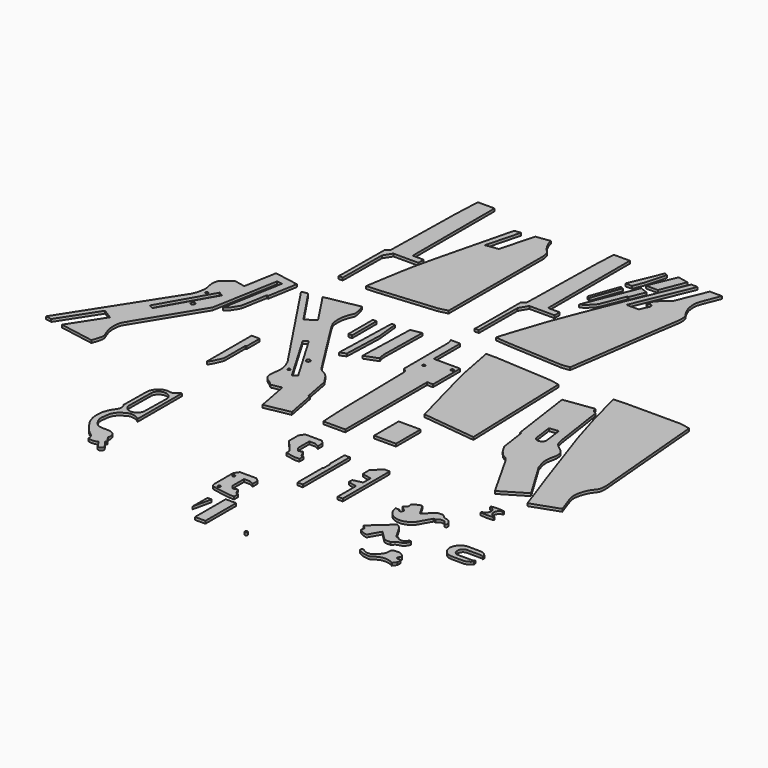
from build123d import *

# Parameters (mm, degrees)
F1_DEPTH = 4
F0_W     = 33.5730910301
F0_H     = 47.1590980887
F0_R     = 2.05
F0_W_2   = 5.7144165039
F0_H_2   = 47.2314357758
F0_R_2   = 3.05
F0_W_3   = 15.9847736359
F0_H_3   = 59.0357482433


with BuildPart() as f1:
    # F0 (on Top) → F1 (new body)
    with BuildSketch(Plane.XY):
        with BuildLine():
            Line((-126.8696933985, 148.6443728209), (-149.1726189852, 147.6457417011))
            Line((-149.1726189852, 147.6457417011), (-134.77191329, 92.6301553845))
            Line((-134.77191329, 92.6301553845), (-120.0102046132, 43.2502627373))
            Line((-120.0102046132, 43.2502627373), (-84.9411413074, -59.3262389302))
            Line((-84.9411413074, -59.3262389302), (-61.009414494, -127.2256076336))
            Line((-61.009414494, -127.2256076336), (-19.3040833776, -112.5261986406))
            Line((-19.3040833776, -112.5261986406), (-28.2539571901, -87.1335144192))
            add(Edge.make_bspline(
                [(-28.2539571901, -87.1335144192), (-28.8616082087, -84.8050385415), (-30.0440561297, -80.2739814435), (-30.2867577287, -73.8183101467), (-28.5145369549, -65.4146262914), (-24.9138246568, -56.0928941749), (-21.6709310355, -51.1066319473), (-17.7588658902, -46.8146256346), (-16.3586589593, -43.2651514679), (-15.5813463231, -38.6956073921), (-15.2979185795, -33.1958223403), (-16.1400583484, -24.6149668379), (-16.6616048664, -19.3007476628)],
                knots=[0, 0, 0, 0, 0.1012575134, 0.1970402955, 0.3093439754, 0.4298558315, 0.5237635009, 0.6136991987, 0.6877944622, 0.7673414647, 0.8559119835, 1, 1, 1, 1], degree=3))
            Line((-16.6616048664, -19.3007476628), (-31.1113949865, 145.6484645605))
            Line((-31.1113949865, 145.6484645605), (-45.6471294165, 148.6443728209))
            Line((-45.6471294165, 148.6443728209), (-126.8696933985, 148.6443728209))
        make_face()
    extrude(amount=F1_DEPTH)


with BuildPart() as f1b:
    # F0 (on Top) → F1, piece 2 (new body)
    with BuildSketch(Plane.XY):
        with BuildLine():
            Line((-150.2856761217, 115.0882318616), (-196.6609656811, 108.6871400476))
            Line((-196.6609656811, 108.6871400476), (-182.6762408018, 10.5949435383))
            Line((-182.6762408018, 10.5949435383), (-180.6167214529, 10.8885633419))
            Line((-180.6167214529, 10.8885633419), (-174.8629330311, -29.4698812767))
            Line((-174.8629330311, -29.4698812767), (-170.3889071941, -37.3528078198))
            add(Edge.make_bspline(
                [(-170.3889071941, -37.3528078198), (-169.6140104101, -38.6593291243), (-168.0289112411, -41.3318990414), (-164.4918087142, -45.0179122971), (-161.8423406119, -48.0923084143), (-157.9222832786, -49.8899292713), (-155.7314569878, -51.5064053024), (-152.5480859385, -54.1210761545), (-150.8606222605, -56.9890729029), (-149.9601751566, -58.5194639862)],
                knots=[0, 0, 0, 0, 0.1496396812, 0.306097198, 0.447218165, 0.588404953, 0.7034165711, 0.8417401849, 1, 1, 1, 1], degree=3))
            Line((-149.9601751566, -58.5194639862), (-111.4456728101, -126.787930727))
            Line((-111.4456728101, -126.787930727), (-73.8773345947, -104.2317524552))
            Line((-73.8773345947, -104.2317524552), (-109.101637609, -45.5640777679))
            add(Edge.make_bspline(
                [(-109.101637609, -45.5640777679), (-109.7092519293, -43.7892885668), (-110.963267246, -40.1264176179), (-112.7418177327, -33.8644897258), (-113.7198122366, -27.6290821225), (-113.3428037503, -20.667315774), (-111.0683907866, -12.0895300115), (-110.8254638798, -7.3162615878), (-111.3612195133, -2.2105599196), (-112.011788876, 0.024660125), (-114.1803740075, 3.0003749438), (-117.1734575042, 5.7402509261), (-123.0209094961, 9.8563916892), (-126.8857962992, 13.6588578665), (-130.2674998512, 18.4681256736), (-132.5204561081, 33.591521371), (-135.2255253827, 51.9276233215), (-140.4503253903, 88.3521148252), (-142.437373651, 101.0963678013), (-143.2584971189, 106.3627749681)],
                knots=[0, 0, 0, 0, 0.0490598765, 0.1012514593, 0.1523260559, 0.2069161892, 0.2675116027, 0.3133673915, 0.3585294317, 0.389844127, 0.4276604059, 0.4696368682, 0.5243450753, 0.5717809871, 0.6197952083, 0.696936577, 0.7886581531, 0.9126655584, 1, 1, 1, 1], degree=3))
            add(Edge.make_bspline(
                [(-143.2584971189, 106.3627749681), (-143.6496126071, 106.4347971787), (-144.5928253734, 106.6084856941), (-146.9059329776, 107.9566773162), (-148.4307166542, 109.2430680249), (-149.2975770777, 110.5057218145), (-149.7426408468, 111.1539939463)],
                knots=[0, 0, 0, 0, 0.2009637919, 0.4846435894, 0.735405539, 1, 1, 1, 1], degree=3))
            Line((-149.7426408468, 111.1539939463), (-150.2856761217, 115.0882318616))
        make_face()
        with BuildLine():
            Line((-159.0502377188, 13.5196315993), (-162.6971513033, 40.8715344965))
            Line((-162.6971513033, 40.8715344965), (-148.7154960632, 42.7357517183))
            Line((-148.7154960632, 42.7357517183), (-145.0007471436, 15.3928935155))
            ThreePointArc((-145.0007471436, 15.3928935155), (-151.0865356582, 7.4140736255), (-159.0502377188, 13.5196315993))
        make_face(mode=Mode.SUBTRACT)
    extrude(amount=F1_DEPTH)


with BuildPart() as f1c:
    # F0 (on Top) → F1, piece 3 (new body)
    with BuildSketch(Plane.XY):
        with Locations((-297.5543955866, -81.3886487544)):
            Rectangle(F0_W, F0_H)
    extrude(amount=F1_DEPTH)


with BuildPart() as f1d:
    # F0 (on Top) → F1, piece 4 (new body)
    with BuildSketch(Plane.XY):
        with BuildLine():
            Line((-383.0040613714, 95.3320635795), (-383.0040613714, 146.148212099))
            Line((-383.0040613714, 146.148212099), (-397.8620688024, 146.148212099))
            add(Edge.make_bspline(
                [(-397.8620688024, 146.148212099), (-397.4652996708, 145.5949915654), (-396.6068854065, 144.3980930179), (-395.9179535112, 141.5487560786), (-395.3482778071, 139.0798178293), (-395.2835453549, 136.9799455072), (-395.249418408, 135.8728928804)],
                knots=[0, 0, 0, 0, 0.2224497714, 0.481272462, 0.7265268571, 1, 1, 1, 1], degree=3))
            Line((-395.249418408, 135.8728928804), (-394.9187914434, 52.8097970723))
            add(Edge.make_bspline(
                [(-394.9187914434, 52.8097970723), (-394.186626028, 52.4426613783), (-392.6714232138, 51.6828808354), (-390.6409762259, 49.6163206045), (-389.6598942345, 47.9081720614), (-389.1635457578, 47.0439864635)],
                knots=[0, 0, 0, 0, 0.3159967496, 0.6539494412, 1, 1, 1, 1], degree=3))
            Line((-389.1635457578, 47.0439864635), (-387.016586453, -71.3504628897))
            Line((-387.016586453, -71.3504628897), (-386.1852804724, -93.0580274821))
            Line((-386.1852804724, -93.0580274821), (-384.7996512953, -114.0973495007))
            Line((-384.7996512953, -114.0973495007), (-351.3473192755, -114.0973495007))
            Line((-351.3473192755, -114.0973495007), (-351.3473192755, 43.1197805642))
            Line((-351.3473192755, 43.1197805642), (-342.4420277181, 43.1197805642))
            Line((-342.4420277181, 43.1197805642), (-342.4420277181, 95.3320635795))
            Line((-342.4420277181, 95.3320635795), (-383.0040613714, 95.3320635795))
        make_face()
        with Locations((-381.5946483713, 74.5795831767)):
            Circle(F0_R, mode=Mode.SUBTRACT)
        with Locations((-347.5594616998, 86.6207893828)):
            Circle(F0_R, mode=Mode.SUBTRACT)
    extrude(amount=F1_DEPTH)


with BuildPart() as f1e:
    # F0 (on Top) → F1, piece 5 (new body)
    with BuildSketch(Plane.XY):
        with BuildLine():
            add(Edge.make_bspline(
                [(-342.0614520613, 144.7621954917), (-338.6008439651, 125.2612932758), (-332.1439201855, 88.8758269808), (-322.2298994141, 52.4255692298), (-305.0785398906, -10.8714420915), (-302.3956225051, -20.9679510403), (-301.5675763193, -24.0841020518)],
                knots=[0, 0, 0, 0, 0.2930633159, 0.5468077982, 0.8601283528, 1, 1, 1, 1], degree=3))
            Line((-301.5675763193, -24.0841020518), (-219.091377646, -33.5164844677))
            Line((-219.091377646, -33.5164844677), (-224.655858666, 136.6334034442))
            Line((-224.655858666, 136.6334034442), (-237.6803974214, 139.4045872926))
            Line((-237.6803974214, 139.4045872926), (-325.2872553572, 144.7621954917))
            Line((-325.2872553572, 144.7621954917), (-342.0614520613, 144.7621954917))
        make_face()
    extrude(amount=F1_DEPTH)


with BuildPart() as f1f:
    # F0 (on Top) → F1, piece 6 (new body)
    with BuildSketch(Plane.XY):
        with Locations((-500.5450248718, 105.3968966007)):
            Rectangle(F0_W_2, F0_H_2)
    extrude(amount=F1_DEPTH)


with BuildPart() as f1g:
    # F0 (on Top) → F1, piece 7 (new body)
    with BuildSketch(Plane.XY):
        with BuildLine():
            Line((-580.5239677429, 5.9514869936), (-591.2783145905, 5.9514869936))
            Line((-591.2783145905, 5.9514869936), (-591.2783145905, -60.0811168551))
            Line((-591.2783145905, -60.0811168551), (-591.2783145905, -80.0575688481))
            add(Edge.make_bspline(
                [(-591.2783145905, -80.0575688481), (-590.6073292225, -79.4887083629), (-588.9624822346, -78.0942093166), (-585.7008294956, -72.3299084365), (-584.8417560667, -69.7516959933), (-582.2639116977, -64.5129183786), (-581.0910589475, -61.5255516932), (-580.5239677429, -60.0811168551)],
                knots=[0, 0, 0, 0, 0.1646933771, 0.4037277386, 0.5670464707, 0.7906607301, 1, 1, 1, 1], degree=3))
            Line((-580.5239677429, -60.0811168551), (-580.5239677429, -19.1602502018))
            Line((-580.5239677429, -19.1602502018), (-578.7490010262, -19.1602502018))
            Line((-578.7490010262, -19.1602502018), (-578.7490010262, 5.9514869936))
            Line((-578.7490010262, 5.9514869936), (-580.5239677429, 5.9514869936))
        make_face()
    extrude(amount=F1_DEPTH)


with BuildPart() as f1h:
    # F0 (on Top) → F1, piece 8 (new body)
    with BuildSketch(Plane.XY):
        with BuildLine():
            Line((-435.6709122658, 139.354839921), (-452.1144330502, 136.3226920366))
            Line((-452.1144330502, 136.3226920366), (-454.7967016697, 48.2739768922))
            Line((-454.7967016697, 48.2739768922), (-434.2718720436, 56.0976229608))
            add(Edge.make_bspline(
                [(-436.7204904556, 68.5660019517), (-436.6741644506, 67.2978347331), (-436.5760896923, 64.6130534013), (-435.7198186127, 59.7213201529), (-434.7349662268, 57.2565836071), (-434.2718720436, 56.0976229608)],
                knots=[0, 0, 0, 0, 0.3216969144, 0.681050462, 1, 1, 1, 1], degree=3))
            Line((-436.7204904556, 68.5660019517), (-435.6709122658, 139.354839921))
        make_face()
    extrude(amount=F1_DEPTH)


with BuildPart() as f1i:
    # F0 (on Top) → F1, piece 9 (new body)
    with BuildSketch(Plane.XY):
        Polygon((-474.5056331158, 134.9232494831), (-479.2870879173, 134.9232494831), (-482.0859730244, 37.3116098344), (-473.1061756611, 41.1600992084), (-471.0070192814, 101.9195541739), align=None)
    extrude(amount=F1_DEPTH)


with BuildPart() as f1j:
    # F0 (on Top) → F1, piece 10 (new body)
    with BuildSketch(Plane.XY):
        with BuildLine():
            Line((-606.6346013213, 133.8739955471), (-616.2075400352, 132.0603638887))
            Line((-616.2075400352, 132.0603638887), (-514.7188305855, -20.7938980311))
            add(Edge.make_bspline(
                [(-514.7188305855, -20.7938980311), (-513.5366087574, -23.4948734155), (-511.4212870369, -28.3276651652), (-510.1802429082, -33.3351768859), (-509.2003703063, -38.5747176969), (-509.1312867446, -43.0922530009), (-509.9183274509, -48.375917569), (-511.0376157223, -55.5553539537), (-510.8344708777, -61.7050119799), (-509.5009662695, -66.532938783), (-505.1453477928, -71.0003727492), (-498.9974085847, -74.6264953227), (-495.6400033244, -77.7026931205), (-493.9857125282, -79.2184248567)],
                knots=[0, 0, 0, 0, 0.1068521165, 0.1911879797, 0.2756402054, 0.3539072671, 0.4394372292, 0.5400101273, 0.6319587672, 0.7129753265, 0.8038972902, 0.9033745161, 1, 1, 1, 1], degree=3))
            Line((-493.9857125282, -79.2184248567), (-478.2448112965, -76.2366726995))
            Line((-478.2448112965, -76.2366726995), (-468.8000060765, -126.0965330375))
            Line((-468.8000060765, -126.0965330375), (-429.6807615674, -118.6862907657))
            Line((-429.6807615674, -118.6862907657), (-438.2991551299, -73.1891217551))
            Line((-438.2991551299, -73.1891217551), (-440.3229222124, -73.5724779413))
            Line((-440.3229222124, -73.5724779413), (-447.9009476891, -33.5674928615))
            add(Edge.make_bspline(
                [(-447.9009476891, -33.5674928615), (-450.535179347, -29.4023886419), (-455.0978336245, -22.1881671717), (-460.3326976087, -16.6530713475), (-464.5775709605, -14.4277878955), (-467.8912096231, -12.9724934273), (-471.7690060051, -9.7319807258), (-473.386985525, -7.1810754357), (-474.1789698601, -5.9324335307)],
                knots=[0, 0, 0, 0, 0.2511203551, 0.4349561888, 0.5783772298, 0.706514657, 0.8563419429, 1, 1, 1, 1], degree=3))
            Line((-474.1789698601, -5.9324335307), (-531.1858057976, 84.1218084097))
            add(Edge.make_bspline(
                [(-531.1858057976, 84.1218084097), (-532.0883228982, 85.7788339879), (-533.8728605535, 89.0552533908), (-535.8981096368, 94.1136359516), (-536.3832726491, 99.4145203045), (-536.5864521231, 104.966524786), (-536.1242086634, 110.6329070757), (-534.2046001488, 118.4692389632), (-532.0053932376, 123.3490591011), (-531.2262015799, 125.3249836175), (-530.3059822568, 127.2229357318), (-530.2995208469, 130.4087529147), (-530.8555227049, 136.9465626055), (-533.4587377271, 143.6218746615), (-534.9532961845, 147.4543064833)],
                knots=[0, 0, 0, 0, 0.0867300668, 0.171490457, 0.2555242828, 0.3407675119, 0.4284610049, 0.533336456, 0.6172888703, 0.6692326459, 0.7201123999, 0.783331289, 0.8756061057, 1, 1, 1, 1], degree=3))
            Line((-534.9532961845, 147.4543064833), (-587.4677444847, 137.505233497))
            Line((-587.4677444847, 137.505233497), (-554.1652441025, 87.1613398194))
            Line((-554.1652441025, 87.1613398194), (-568.8669589945, 77.4361511213))
            Line((-568.8669589945, 77.4361511213), (-606.6346013213, 133.8739955471))
        make_face()
        with Locations((-501.4609098434, -34.6162058413)):
            Circle(F0_R, mode=Mode.SUBTRACT)
        Polygon((-489.1925752163, -44.2672595382), (-534.9532961845, 33.6478352547), (-528.539121151, 37.3797006905), (-482.813000679, -40.1760153472), align=None, mode=Mode.SUBTRACT)
        with Locations((-497.574955225, -2.300796099)):
            Circle(F0_R_2, mode=Mode.SUBTRACT)
    extrude(amount=F1_DEPTH)


with BuildPart() as f1k:
    # F0 (on Top) → F1, piece 11 (new body)
    with BuildSketch(Plane.XY):
        with BuildLine():
            Line((-570.1380968094, 446.0050463676), (-595.7950353622, 446.0050463676))
            add(Edge.make_bspline(
                [(-599.9557375908, 284.6274077892), (-599.8363116899, 290.8376082782), (-599.5949679056, 303.3875934689), (-598.7989403028, 321.7884257691), (-598.3370589885, 366.6813476594), (-597.8113493608, 393.2731142039), (-597.8180447336, 404.3422830589), (-596.6045832121, 429.3328544675), (-595.7950353622, 446.0050463676)],
                knots=[0, 0, 0, 0, 0.140820454, 0.2845793167, 0.5089375246, 0.6776456794, 0.7849447696, 1, 1, 1, 1], degree=3))
            add(Edge.make_bspline(
                [(-605.6446433067, 278.9187729359), (-605.0935047016, 279.2372289163), (-603.9766780522, 279.8825477568), (-602.4907481766, 281.1139835084), (-600.6620648662, 283.2883420082), (-600.1650576671, 284.2305756672), (-599.9557375908, 284.6274077892)],
                knots=[0, 0, 0, 0, 0.2416985592, 0.4897776884, 0.7851142329, 1, 1, 1, 1], degree=3))
            Line((-605.6446433067, 278.9187729359), (-606.0792207718, 200.1085579395))
            Line((-606.0792207718, 200.1085579395), (-606.0792207718, 197.1296668053))
            Line((-606.0792207718, 197.1296668053), (-606.2263250351, 194.5553272963))
            Line((-606.2263250351, 194.5553272963), (-606.4592003822, 191.9461637735))
            Line((-606.4592003822, 191.9461637735), (-600.0903844833, 191.9461637735))
            Line((-600.0903844833, 191.9461637735), (-599.3775725365, 266.1938965321))
            Line((-599.3775725365, 266.1938965321), (-591.6303992271, 278.6488234997))
            Line((-591.6303992271, 278.6488234997), (-553.2865524292, 278.6488234997))
            Line((-553.2865524292, 278.6488234997), (-553.2865524292, 288.8481020927))
            Line((-553.2865524292, 288.8481020927), (-570.1380968094, 288.8481020927))
            Line((-570.1380968094, 288.8481020927), (-570.1380968094, 446.0050463676))
        make_face()
    extrude(amount=F1_DEPTH)


with BuildPart() as f1l:
    # F0 (on Top) → F1, piece 12 (new body)
    with BuildSketch(Plane.XY):
        with BuildLine():
            Line((-505.8259856911, 416.5581063239), (-515.5130624771, 415.2249693871))
            Line((-515.5130624771, 415.2249693871), (-544.4291234016, 298.331797123))
            add(Edge.make_bspline(
                [(-544.4291234016, 298.331797123), (-546.5763743396, 289.3212873693), (-550.7160120485, 271.9501244118), (-555.0654761868, 250.1304222198), (-561.1861184549, 214.245097284), (-563.428715173, 199.1188405118), (-564.4128322601, 192.4809962511)],
                knots=[0, 0, 0, 0, 0.2501933866, 0.4823423101, 0.7728366523, 1, 1, 1, 1], degree=3))
            Line((-564.4128322601, 192.4809962511), (-541.9923663139, 193.7090903521))
            Line((-541.9923663139, 193.7090903521), (-460.2054953575, 201.0178714991))
            Line((-460.2054953575, 201.0178714991), (-447.2607970238, 204.3522447348))
            Line((-447.2607970238, 204.3522447348), (-446.923494339, 383.5378587246))
            add(Edge.make_bspline(
                [(-464.6663963795, 422.222495079), (-464.3864611354, 420.9277805132), (-463.7742609115, 418.0963237252), (-461.6793555576, 412.4096988593), (-458.9364292177, 407.5807985203), (-454.4974498256, 400.723421017), (-450.3058870161, 397.3292140832), (-448.5494664377, 394.3810006965), (-447.230887383, 389.0332902009), (-447.0267424299, 385.3836806121), (-446.923494339, 383.5378587246)],
                knots=[0, 0, 0, 0, 0.1104347991, 0.2415137435, 0.3712283272, 0.5254895112, 0.6494854222, 0.7471520132, 0.8721199249, 1, 1, 1, 1], degree=3))
            Line((-464.6663963795, 422.222495079), (-486.3327259813, 419.2407716019))
            Line((-486.3327259813, 419.2407716019), (-500.2357363701, 366.825312376))
            Line((-500.2357363701, 366.825312376), (-519.4985764494, 364.1743574816))
            Line((-519.4985764494, 364.1743574816), (-505.8259856911, 416.5581063239))
        make_face()
    extrude(amount=F1_DEPTH)


with BuildPart() as f1m:
    # F0 (on Top) → F1, piece 13 (new body)
    with BuildSketch(Plane.XY):
        Polygon((-269.6309089661, 440.7725930214), (-285.9586775303, 444.0712630749), (-303.1935095787, 402.7554094791), (-284.7217321396, 402.7554094791), align=None)
    extrude(amount=F1_DEPTH)


with BuildPart() as f1n:
    # F0 (on Top) → F1, piece 14 (new body)
    with BuildSketch(Plane.XY):
        Polygon((-300.6371557713, 439.7829771042), (-305.0076961517, 441.9271051884), (-325.8709311485, 391.7048573494), (-315.7279491425, 391.7048573494), (-309.2958033085, 407.8683257103), align=None)
    extrude(amount=F1_DEPTH)


with BuildPart() as f1o:
    # F0 (on Top) → F1, piece 15 (new body)
    with BuildSketch(Plane.XY):
        with BuildLine():
            Line((-252.6434659958, 438.8758540154), (-262.5390589237, 438.8758540154))
            Line((-262.5390589237, 438.8758540154), (-297.9635298252, 353.6876440048))
            Line((-297.9635298252, 353.6876440048), (-320.992231369, 296.1804270744))
            Line((-320.992231369, 296.1804270744), (-336.094379425, 257.3446929455))
            Line((-336.094379425, 257.3446929455), (-354.1385531425, 203.4061402082))
            Line((-354.1385531425, 203.4061402082), (-359.5672249794, 185.3179335594))
            Line((-359.5672249794, 185.3179335594), (-337.793469429, 183.4455728531))
            Line((-337.793469429, 183.4455728531), (-253.5338401794, 178.8835227489))
            Line((-253.5338401794, 178.8835227489), (-241.6591048241, 180.4297715425))
            add(Edge.make_bspline(
                [(-223.8890230656, 416.2343740463), (-224.7464859938, 414.0589694647), (-226.3789726339, 409.917310625), (-227.8341763392, 404.4404382996), (-227.9988425447, 399.5245944133), (-227.5156293029, 394.2837653399), (-226.2949227682, 387.3501900343), (-223.3812742646, 380.4539928242), (-219.9286772443, 374.9560970823), (-217.1535374654, 371.5027304779), (-215.8402125269, 367.6777972622), (-215.6825539501, 362.4063832796), (-215.5739189482, 357.3310725709), (-220.5278904759, 329.5062713766), (-232.7703231982, 243.1383518799), (-241.6591048241, 180.4297715425)],
                knots=[0, 0, 0, 0, 0.0608249763, 0.1158020458, 0.166598332, 0.219604079, 0.281133206, 0.3451998085, 0.4042738658, 0.4524062468, 0.4986181041, 0.5507475188, 0.5990475243, 0.7088831052, 1, 1, 1, 1], degree=3))
            Line((-223.8890230656, 416.2343740463), (-215.0654494762, 438.582867384))
            Line((-215.0654494762, 438.582867384), (-233.6197048426, 438.582867384))
            Line((-233.6197048426, 438.582867384), (-252.6687681675, 392.2365307808))
            Line((-252.6687681675, 392.2365307808), (-269.3683803082, 377.5373697281))
            Line((-269.3683803082, 377.5373697281), (-273.7406014097, 366.8445887195))
            Line((-273.7406014097, 366.8445887195), (-271.4170680779, 365.8243612775))
            ThreePointArc((-271.4170680779, 365.8243612775), (-266.8666973715, 367.5979704989), (-265.09308815, 363.0475997925))
            Line((-265.09308815, 363.0475997925), (-271.1952030659, 349.1502404213))
            Line((-271.1952030659, 349.1502404213), (-290.2044057846, 349.1502404213))
            Line((-290.2044057846, 349.1502404213), (-252.6434659958, 438.8758540154))
        make_face()
    extrude(amount=F1_DEPTH)


with BuildPart() as f1p:
    # F0 (on Top) → F1, piece 16 (new body)
    with BuildSketch(Plane.XY):
        Polygon((-324.6793746668, 381.4430840636), (-340.3768837452, 337.308973074), (-336.0063433647, 335.6596529484), (-320.4207420349, 379.9442946911), align=None)
    extrude(amount=F1_DEPTH)


with BuildPart() as f1q:
    # F0 (on Top) → F1, piece 17 (new body)
    with BuildSketch(Plane.XY):
        with BuildLine():
            Line((-291.7368412018, 389.7482454777), (-303.3508956432, 394.0130472183))
            Line((-303.3508956432, 394.0130472183), (-335.1690471172, 314.4009113312))
            add(Edge.make_bspline(
                [(-335.1690471172, 314.4009113312), (-334.1892319299, 314.8452928849), (-331.8919272836, 315.8872034629), (-326.6349383667, 319.5447535417), (-322.2398393838, 324.5902686995), (-319.2053003935, 327.8512519544), (-317.6980912685, 329.4709324837)],
                knots=[0, 0, 0, 0, 0.1951443204, 0.4575413402, 0.7305690767, 1, 1, 1, 1], degree=3))
            Line((-317.6980912685, 329.4709324837), (-302.6775154287, 367.1936863768))
            Line((-302.6775154287, 367.1936863768), (-300.8767962456, 366.4861619473))
            Line((-300.8767962456, 366.4861619473), (-291.7368412018, 389.7482454777))
        make_face()
    extrude(amount=F1_DEPTH)


with BuildPart() as f1r:
    # F0 (on Top) → F1, piece 18 (new body)
    with BuildSketch(Plane.XY):
        with BuildLine():
            add(Edge.make_bspline(
                [(-394.0003216267, 187.2221380472), (-393.8788367871, 187.6796204547), (-393.5880018886, 188.774834063), (-393.4363835452, 190.6291557486), (-393.3480978012, 191.708907485)],
                knots=[0, 0, 0, 0, 0.4177106676, 1, 1, 1, 1], degree=3))
            Line((-394.0003216267, 187.2221380472), (-387.4298930168, 187.2221380472))
            Line((-387.4298930168, 187.2221380472), (-386.9952559471, 261.2520754337))
            Line((-386.9952559471, 261.2520754337), (-379.2970776558, 274.1482853889))
            Line((-379.2970776558, 274.1482853889), (-340.632557869, 274.1482853889))
            Line((-340.632557869, 274.1482853889), (-340.632557869, 284.104436636))
            Line((-340.632557869, 284.104436636), (-358.5271239281, 284.104436636))
            Line((-358.5271239281, 284.104436636), (-358.5271239281, 441.2885010242))
            Line((-358.5271239281, 441.2885010242), (-383.0580413342, 441.2885010242))
            add(Edge.make_bspline(
                [(-383.0580413342, 441.2885010242), (-383.223280959, 437.8945239384), (-383.5401815364, 431.3854720138), (-384.2763846505, 422.7452517582), (-384.7232210293, 414.4351816006), (-385.0258204655, 397.8078169047), (-385.6323123688, 371.0408992664), (-385.766348071, 344.0718975859), (-386.2577730291, 317.3785184702), (-387.1099493921, 288.2235847485), (-387.2364235378, 282.1318992953), (-387.2793316841, 280.0652086735)],
                knots=[0, 0, 0, 0, 0.0861695966, 0.1652581513, 0.2423156963, 0.3519381802, 0.4939967142, 0.6354121144, 0.7799779894, 0.9253544147, 1, 1, 1, 1], degree=3))
            add(Edge.make_bspline(
                [(-387.2793316841, 280.0652086735), (-387.6981221963, 279.4488818457), (-388.4414757844, 278.3549010952), (-389.2249105583, 277.3794674389), (-390.7759402629, 275.8239183863), (-392.2535404059, 274.8783061801), (-393.0412232876, 274.374216795)],
                knots=[0, 0, 0, 0, 0.2537239405, 0.4503602542, 0.7069966317, 1, 1, 1, 1], degree=3))
            Line((-393.0412232876, 274.374216795), (-393.3480978012, 191.708907485))
        make_face()
    extrude(amount=F1_DEPTH)


with BuildPart() as f1s:
    # F0 (on Top) → F1, piece 19 (new body)
    with BuildSketch(Plane.XY):
        with BuildLine():
            Line((-678.4248352051, 100.9059399366), (-696.0345506668, 104.4045612216))
            add(Edge.make_bspline(
                [(-716.0859107971, 45.3799813986), (-715.1380114353, 46.9171322974), (-713.0757499465, 51.885268724), (-711.9137648311, 56.260615069), (-710.2389836645, 65.1362668657), (-711.1385410545, 71.4373524973), (-712.7140477123, 78.0845251645), (-712.8885943257, 84.6428768511), (-711.6615040044, 91.7445763164), (-706.7875502148, 95.9682820562), (-702.0346434724, 98.8512424442), (-698.159499351, 102.4378179077), (-696.0345506668, 104.4045612216)],
                knots=[0, 0, 0, 0, 0.1012236777, 0.1877130651, 0.3017044512, 0.4008514848, 0.5006603367, 0.6005075694, 0.7023319019, 0.7976672544, 0.8890107049, 1, 1, 1, 1], degree=3))
            Line((-716.0859107971, 45.3799813986), (-815.0666952133, -108.7941676378))
            Line((-815.0666952133, -108.7941676378), (-805.8601774684, -110.430440958))
            Line((-805.8601774684, -110.430440958), (-768.847823143, -53.227558732))
            Line((-768.847823143, -53.227558732), (-753.7347740118, -63.0062535742))
            Line((-753.7347740118, -63.0062535742), (-786.6312396991, -113.8479978149))
            Line((-786.6312396991, -113.8479978149), (-733.9261174202, -123.2152730227))
            add(Edge.make_bspline(
                [(-730.2752137184, -58.7613023818), (-730.9478141395, -59.9310615636), (-732.2482416693, -62.1927120111), (-734.1079391651, -65.0928659146), (-735.6269751863, -70.0772045523), (-735.992262227, -75.6735113025), (-736.3652031194, -81.8778682116), (-734.8814341519, -89.1360651985), (-732.2503407292, -97.5975075808), (-730.1503695908, -101.3164385965), (-729.0673655857, -105.64340997), (-730.146394766, -111.8606416847), (-732.5283415331, -119.0162268641), (-733.9261174202, -123.2152730227)],
                knots=[0, 0, 0, 0, 0.0742163579, 0.1434923202, 0.2278063106, 0.3169454193, 0.4092626672, 0.5126496901, 0.6237537303, 0.7008926992, 0.7763616217, 0.8687643499, 1, 1, 1, 1], degree=3))
            Line((-730.2752137184, -58.7613023818), (-673.5481975472, 33.9919456786))
            Line((-673.5481975472, 33.9919456786), (-655.4192809638, 135.3609722038))
            Line((-655.4192809638, 135.3609722038), (-647.0003724098, 133.8553279638))
            Line((-647.0003724098, 133.8553279638), (-663.5693311691, 41.2089079618))
            add(Edge.make_bspline(
                [(-663.5693311691, 41.2089079618), (-662.6673861061, 41.9120311541), (-660.6248198402, 43.5043406772), (-656.5407619886, 47.4968008108), (-653.531740655, 52.589373368), (-651.9082108682, 55.3160706287), (-650.3590515727, 57.8889645406), (-649.5134327645, 59.2933956341)],
                knots=[0, 0, 0, 0, 0.1786976041, 0.4046828491, 0.6314367289, 0.7988173102, 1, 1, 1, 1], degree=3))
            Line((-649.5134327645, 59.2933956341), (-642.453712441, 99.2157477975))
            Line((-642.453712441, 99.2157477975), (-640.3424442417, 98.8423989789))
            Line((-640.3424442417, 98.8423989789), (-632.3143095467, 144.2410841699))
            Line((-632.3143095467, 144.2410841699), (-669.5957779884, 150.8338004351))
            Line((-669.5957779884, 150.8338004351), (-678.4248352051, 100.9059399366))
        make_face()
        Polygon((-735.466244477, -8.9512105188), (-690.8397078514, 69.2328289151), (-684.3089461327, 65.3843432665), (-728.9163470268, -12.6933045685), align=None, mode=Mode.SUBTRACT)
        with Locations((-698.5371112823, 27.3897666484)):
            Circle(F0_R_2, mode=Mode.SUBTRACT)
        with Locations((-702.931702137, 59.4447590411)):
            Circle(F0_R, mode=Mode.SUBTRACT)
    extrude(amount=F1_DEPTH)


with BuildPart() as f1t:
    # F0 (on Top) → F1, piece 20 (new body)
    with BuildSketch(Plane.XY):
        with BuildLine():
            Line((-562.891304493, -163.4428352118), (-565.6126141548, -163.4428352118))
            add(Edge.make_bspline(
                [(-598.3564853668, -185.1557791233), (-598.1665816357, -184.2427557934), (-597.7508754346, -182.2441143885), (-596.103553532, -178.475795799), (-593.819301803, -174.7916131601), (-591.2077445799, -172.534296598), (-589.3477680152, -171.3762260155), (-586.007826303, -169.6498491995), (-582.4315324331, -169.0323075972), (-579.881190219, -168.8911411217), (-576.9489012805, -169.3308069369), (-574.1011338249, -169.7527796129), (-571.7150321552, -169.6667386006), (-569.9164084948, -168.3637361211), (-567.443866717, -166.6035056146), (-566.2438634077, -164.5323467687), (-565.6126141548, -163.4428352118)],
                knots=[0, 0, 0, 0, 0.0693676285, 0.1518482714, 0.237452551, 0.311444312, 0.3715175199, 0.4498014832, 0.5274956245, 0.5922047425, 0.6618344875, 0.7314635507, 0.7926283476, 0.8519488279, 0.9221192216, 1, 1, 1, 1], degree=3))
            Line((-598.3564853668, -185.1557791233), (-598.8880395889, -230.0121933222))
            add(Edge.make_bspline(
                [(-598.8880395889, -230.0121933222), (-598.5689197199, -230.5785737024), (-597.8960043806, -231.7728774194), (-596.622613986, -233.916324423), (-596.5997630421, -236.8533125385), (-596.4699179592, -239.1485491514), (-597.4665001633, -242.0222742464), (-598.5677899275, -244.2874015518), (-600.3048972206, -246.3307285544), (-602.0332876724, -248.8647919229), (-604.5038016614, -253.5368910646), (-606.947050354, -260.8832130545), (-607.4454827571, -265.1109333905), (-607.9091977835, -272.334173596), (-606.9877624397, -279.99910874), (-603.9044928294, -289.0309309253), (-599.1269760235, -296.2334563038), (-594.4403804526, -301.8296766202), (-591.6788190626, -305.7274615229), (-587.9686987892, -309.9824874876), (-584.4538420778, -312.4094859856), (-580.5808448041, -315.6551774404), (-578.2322892309, -319.2351682753), (-577.5588725619, -321.9201259653), (-577.4343874162, -323.8216962471), (-577.3713588715, -324.7844874859)],
                knots=[0, 0, 0, 0, 0.029202058, 0.061577215, 0.0964913245, 0.1280154536, 0.1635082912, 0.1964797456, 0.2296909621, 0.2652888705, 0.3132571254, 0.3704046387, 0.4135563049, 0.4678887804, 0.5259225954, 0.5894075884, 0.6506744292, 0.7058584086, 0.7512747108, 0.7995231181, 0.8425851622, 0.8889329964, 0.9312779333, 0.9652050706, 1, 1, 1, 1], degree=3))
            add(Edge.make_bspline(
                [(-577.3713588715, -324.7844874859), (-576.1984827235, -325.1220877092), (-573.8348707534, -325.8024288777), (-570.0684268024, -325.6748090168), (-566.0105245635, -325.384260961), (-563.6288980831, -324.2978129908), (-562.4490380287, -323.759585619)],
                knots=[0, 0, 0, 0, 0.2438850443, 0.4914837862, 0.7480805775, 1, 1, 1, 1], degree=3))
            Line((-562.4490380287, -323.759585619), (-556.0065322771, -333.560016404))
            ThreePointArc((-556.0065322771, -333.560016404), (-554.1070283294, -334.8499631824), (-551.8517460926, -334.4189411745))
            Line((-551.8517460926, -334.4189411745), (-549.913266795, -333.1446437178))
            ThreePointArc((-549.913266795, -333.1446437178), (-548.6140361347, -331.198359266), (-549.1079971227, -328.9109970256))
            Line((-549.1079971227, -328.9109970256), (-556.5651059151, -318.3169066906))
            Line((-556.5651059151, -318.3169066906), (-554.5089884014, -316.8696194291))
            Line((-554.5089884014, -316.8696194291), (-560.7133550626, -308.0552621883))
            add(Edge.make_bspline(
                [(-562.891304493, -248.770788312), (-563.4792625842, -248.1939982364), (-564.8541561007, -246.8452202417), (-568.9653618455, -244.149415126), (-573.2835475385, -243.2926941994), (-577.5960757923, -242.7653324139), (-581.9684485896, -243.9268289498), (-585.5218199189, -246.0839650021), (-588.6617576476, -248.1522834037), (-593.3862381499, -251.7083654487), (-597.4742756071, -258.9092544463), (-598.2377120527, -267.8999409153), (-599.1060377839, -272.3956516408), (-598.7675259866, -277.9867380007), (-595.343705182, -284.6358096473), (-591.8059000716, -289.5319609232), (-587.6143737658, -292.0044742862), (-582.2472466581, -293.1965874238), (-574.7323477965, -293.2512627268), (-569.9151575898, -292.9600122973), (-565.2406098555, -294.6800505102), (-562.0024683059, -297.142248597), (-560.0858624421, -301.9886424602), (-560.1101425941, -304.5277536486), (-560.5016677471, -306.8173421316), (-560.7133550626, -308.0552621883)],
                knots=[0, 0, 0, 0, 0.0319782029, 0.0747784995, 0.1159556082, 0.1562747142, 0.1973954401, 0.2367872946, 0.2743565396, 0.3209131739, 0.3771398614, 0.4353211132, 0.4768927679, 0.5218874771, 0.5753615702, 0.6231701464, 0.664893897, 0.7106513607, 0.7640679498, 0.8072502718, 0.8495147837, 0.88893398, 0.93217844, 0.9633306727, 1, 1, 1, 1], degree=3))
            Line((-562.891304493, -248.770788312), (-562.891304493, -163.4428352118))
        make_face()
        with BuildLine():
            ThreePointArc((-592.0991897583, -185.1557791233), (-580.2263006232, -174.5415631954), (-568.2501792908, -185.0391626358))
            Line((-568.2501792908, -185.0391626358), (-569.0647959709, -228.7245988846))
            ThreePointArc((-569.0647959709, -228.7245988846), (-580.6680998257, -238.4211405784), (-592.6067829132, -229.1406542063))
            Line((-592.6067829132, -229.1406542063), (-592.0991897583, -185.1557791233))
        make_face(mode=Mode.SUBTRACT)
    extrude(amount=F1_DEPTH)


with BuildPart() as f1u:
    # F0 (on Top) → F1, piece 21 (new body)
    with BuildSketch(Plane.XY):
        Polygon((-249.3604719639, -221.1067378521), (-249.4991570711, -256.0556828976), (-241.5940463543, -256.0556828976), (-241.5940463543, -165.9095734358), (-249.7765421867, -165.9095734358), (-262.8130614758, -178.3913373947), (-262.8130614758, -190.5957460403), (-259.2072188854, -191.9825971127), (-248.3896762133, -194.2015886307), (-248.3896762133, -208.2089036703), (-259.068518877, -210.7052505016), (-262.8130614758, -211.8147462606), (-262.8130614758, -218.0556356907), align=None)
    extrude(amount=F1_DEPTH)


with BuildPart() as f1v:
    # F0 (on Top) → F1, piece 22 (new body)
    with BuildSketch(Plane.XY):
        with Locations((-342.0623838902, -374.6859282255)):
            Rectangle(F0_W_3, F0_H_3)
    extrude(amount=F1_DEPTH)


with BuildPart() as f1w:
    # F0 (on Top) → F1, piece 23 (new body)
    with BuildSketch(Plane.XY):
        with Locations((-277.9720723629, -395.6651706202)):
            Circle(F0_R)
    extrude(amount=F1_DEPTH)


with BuildPart() as f1x:
    # F0 (on Top) → F1, piece 24 (new body)
    with BuildSketch(Plane.XY):
        Polygon((-363.0661666393, -355.9935688972), (-369.3914115429, -355.9935688972), (-369.4404363632, -384.4817578793), align=None)
    extrude(amount=F1_DEPTH)


with BuildPart() as f1y:
    # F0 (on Top) → F1, piece 25 (new body)
    with BuildSketch(Plane.XY):
        Polygon((-301.962941885, -167.0411080122), (-310.1263642311, -167.0411080122), (-310.1263642311, -195.1200664043), (-309.0214729309, -195.1200664043), (-309.0214729309, -209.4394266605), (-310.1263642311, -209.4394266605), (-310.1263642311, -257.4222385883), (-301.962941885, -257.4222385883), align=None)
    extrude(amount=F1_DEPTH)


with BuildPart() as f1z:
    # F0 (on Top) → F1, piece 26 (new body)
    with BuildSketch(Plane.XY):
        Polygon((-360.7344329357, -193.2405084372), (-365.6577765942, -187.3463392258), (-365.6577765942, -165.2952134609), (-356.9205403328, -165.2952134609), (-349.9862253666, -168.4156656265), (-349.9862253666, -159.054338932), (-355.256319046, -154.2696505785), (-380.7052671909, -154.2696505785), (-385.6286108494, -161.5506857634), (-385.6286108494, -179.1638582945), (-368.5702085495, -199.2733627558), (-368.5702085495, -205.5142521858), (-353.9387881756, -208.0799490213), (-346.7271029949, -208.0799490213), (-346.7271029949, -200.1748234034), (-349.7088551521, -200.1748234034), (-354.7015786171, -190.8134967089), align=None)
    extrude(amount=F1_DEPTH)


with BuildPart() as f1ba:
    # F0 (on Top) → F1, piece 27 (new body)
    with BuildSketch(Plane.XY):
        with BuildLine():
            Line((-360.6741726398, -318.5326009989), (-365.5975162983, -312.6384317875))
            Line((-365.5975162983, -312.6384317875), (-365.5975162983, -290.5873060226))
            Line((-365.5975162983, -290.5873060226), (-356.8602800369, -290.5873060226))
            Line((-356.8602800369, -290.5873060226), (-349.9259650707, -293.7077581882))
            Line((-349.9259650707, -293.7077581882), (-349.9259650707, -284.3464314938))
            Line((-349.9259650707, -284.3464314938), (-355.1960587502, -279.5617431402))
            Line((-355.1960587502, -279.5617431402), (-380.6450068951, -279.5617431402))
            Line((-380.6450068951, -279.5617431402), (-385.5683505535, -286.8427783251))
            Line((-385.5683505535, -286.8427783251), (-385.5683505535, -322.5919604301))
            ThreePointArc((-385.5683505535, -322.5919604301), (-384.2707152149, -326.7578099966), (-380.5107176304, -328.9715349674))
            Line((-380.5107176304, -328.9715349674), (-353.8785278797, -333.3720415831))
            Line((-353.8785278797, -333.3720415831), (-346.6668426991, -333.3720415831))
            Line((-346.6668426991, -333.3720415831), (-346.6668426991, -325.4669159651))
            Line((-346.6668426991, -325.4669159651), (-349.6485948563, -325.4669159651))
            Line((-349.6485948563, -325.4669159651), (-354.6413183212, -316.1055892706))
            Line((-354.6413183212, -316.1055892706), (-360.6741726398, -318.5326009989))
        make_face()
        with Locations((-377.3209154606, -323.9263296127)):
            Circle(F0_R, mode=Mode.SUBTRACT)
        with Locations((-380.7021677494, -291.5135324001)):
            Circle(F0_R, mode=Mode.SUBTRACT)
    extrude(amount=F1_DEPTH)


with BuildPart() as f1bb:
    # F0 (on Top) → F1, piece 28 (new body)
    with BuildSketch(Plane.XY):
        with BuildLine():
            Line((-28.3981710672, -259.7650587559), (-47.1901670098, -259.7650587559))
            ThreePointArc((-47.1901670098, -259.7650587559), (-57.4946403254, -264.9660107712), (-61.6136998417, -275.7486552))
            ThreePointArc((-61.6136998417, -275.7486552), (-57.4946403254, -286.5312996288), (-47.1901670098, -291.7322516441))
            Line((-47.1901670098, -291.7322516441), (-28.3981710672, -291.7322516441))
            add(Edge.make_bspline(
                [(-28.3981710672, -291.7322516441), (-27.9993670013, -291.7475328801), (-27.0531586136, -291.7837893651), (-24.6544150531, -291.3998164411), (-21.1582121644, -289.8817641829), (-18.6700922642, -288.2533036307), (-17.2901815051, -286.6369946829), (-16.5914129466, -285.8185172081)],
                knots=[0, 0, 0, 0, 0.1386025086, 0.3288503488, 0.5692654218, 0.7818817063, 1, 1, 1, 1], degree=3))
            Line((-16.5914129466, -285.8185172081), (-16.5914129466, -282.9039692879))
            add(Edge.make_bspline(
                [(-20.9784526378, -284.1738462448), (-20.6716185254, -284.1645535656), (-20.0576061852, -284.1459577854), (-19.1436725468, -284.0278837891), (-17.8920918721, -283.6407228183), (-17.0364298867, -283.1560436433), (-16.5914129466, -282.9039692879)],
                knots=[0, 0, 0, 0, 0.2231588228, 0.4465679188, 0.7121682913, 1, 1, 1, 1], degree=3))
            Line((-20.9784526378, -284.1738462448), (-42.0587733388, -284.1738462448))
            ThreePointArc((-42.0587733388, -284.1738462448), (-47.7181314367, -281.647975289), (-49.6171787381, -275.7486552))
            ThreePointArc((-49.6171787381, -275.7486552), (-47.7181314367, -269.849335111), (-42.0587733388, -267.3234641552))
            Line((-42.0587733388, -267.3234641552), (-20.9784526378, -267.3234641552))
            add(Edge.make_bspline(
                [(-20.9784526378, -267.3234641552), (-20.6716185254, -267.3327568344), (-20.0576061852, -267.3513526146), (-19.1436725468, -267.4694266109), (-17.8920918721, -267.8565875817), (-17.0364298867, -268.3412667567), (-16.5914129466, -268.5933411121)],
                knots=[0, 0, 0, 0, 0.2231588228, 0.4465679188, 0.7121682913, 1, 1, 1, 1], degree=3))
            Line((-16.5914129466, -268.5933411121), (-16.5914129466, -265.6787931919))
            add(Edge.make_bspline(
                [(-28.3981710672, -259.7650587559), (-27.9993670013, -259.7497775199), (-27.0531586136, -259.7135210349), (-24.6544150531, -260.0974939589), (-21.1582121644, -261.6155462171), (-18.6700922642, -263.2440067693), (-17.2901815051, -264.8603157171), (-16.5914129466, -265.6787931919)],
                knots=[0, 0, 0, 0, 0.1386025086, 0.3288503488, 0.5692654218, 0.7818817063, 1, 1, 1, 1], degree=3))
        make_face()
    extrude(amount=F1_DEPTH)


with BuildPart() as f1bc:
    # F0 (on Top) → F1, piece 29 (new body)
    with BuildSketch(Plane.XY):
        with BuildLine():
            add(Edge.make_bspline(
                [(-89.8669809103, -160.962164402), (-86.5319616046, -160.6247098032), (-79.8605831819, -159.9504816742), (-73.2177900571, -160.5788565117), (-69.8669809103, -160.8928143978)],
                knots=[0, 0, 0, 0, 0.5000562255, 1, 1, 1, 1], degree=3))
            Line((-89.8669809103, -160.962164402), (-89.8669809103, -162.695735693))
            ThreePointArc((-89.8669809103, -162.695735693), (-84.1855392586, -165.2221174017), (-81.8615853786, -170.9893196821))
            ThreePointArc((-81.8615853786, -170.9893196821), (-84.1855392586, -176.7565219626), (-89.8669809103, -179.2829036713))
            Line((-89.8669809103, -179.2829036713), (-89.8669809103, -181.0164749622))
            add(Edge.make_bspline(
                [(-89.8669809103, -181.0164749622), (-86.5319616046, -181.353929561), (-79.8605831819, -182.0281576901), (-73.2177900571, -181.3997828526), (-69.8669809103, -181.0858249664)],
                knots=[0, 0, 0, 0, 0.5000562255, 1, 1, 1, 1], degree=3))
            Line((-69.8669809103, -181.0858249664), (-69.8669809103, -179.2829036713))
            ThreePointArc((-69.8669809103, -179.2829036713), (-75.548422562, -176.7565219626), (-77.872376442, -170.9893196821))
            ThreePointArc((-77.872376442, -170.9893196821), (-75.548422562, -165.2221174017), (-69.8669809103, -162.695735693))
            Line((-69.8669809103, -162.695735693), (-69.8669809103, -160.8928143978))
        make_face()
    extrude(amount=F1_DEPTH)


with BuildPart() as f1bd:
    # F0 (on Top) → F1, piece 30 (new body)
    with BuildSketch(Plane.XY):
        with BuildLine():
            add(Edge.make_bspline(
                [(-112.2840866446, -325.053602457), (-111.2125862595, -324.4478033811), (-109.0986710709, -323.2526494776), (-105.5529017242, -322.8882805261), (-102.5590318667, -322.7799034575), (-98.6838299817, -323.6254520613), (-95.864106659, -325.3194382452), (-93.2702983513, -327.3857843893), (-92.1948539664, -329.0527618282), (-91.6713550687, -329.8642039299)],
                knots=[0, 0, 0, 0, 0.1491491279, 0.2942496439, 0.4301643086, 0.5835424799, 0.7259205868, 0.8665851319, 1, 1, 1, 1], degree=3))
            Line((-112.2840866446, -325.053602457), (-112.5118881464, -333.8619172573))
            add(Edge.make_bspline(
                [(-112.5118881464, -333.8619172573), (-113.4705346946, -335.3559553491), (-115.2510693968, -338.1308953662), (-117.3449920672, -341.2751568381), (-119.9194654181, -344.1492510192), (-123.0844846285, -346.3106538792), (-125.4002340058, -347.7260562806), (-128.8396708366, -348.0103288423), (-131.2269293524, -348.0358611274), (-134.6198587688, -346.8526210399), (-136.175767531, -345.8551448897), (-138.147145745, -344.6685031616), (-139.0084290347, -344.0442680666), (-139.3997222185, -343.7606692314)],
                knots=[0, 0, 0, 0, 0.1182169164, 0.2195692692, 0.3219735396, 0.4236241581, 0.5098394289, 0.6043911301, 0.6873010845, 0.784119499, 0.8570675686, 0.9350637742, 1, 1, 1, 1], degree=3))
            add(Edge.make_bspline(
                [(-139.3997222185, -343.7606692314), (-139.5739879434, -343.713863233), (-139.9802157412, -343.6047545848), (-141.0562502062, -343.6205596158), (-142.1245089949, -344.5803908653), (-142.3984084306, -345.5048159052), (-142.5714420623, -346.5975910981), (-141.2381541169, -348.3469417565), (-137.2983669311, -350.4160242233), (-134.1577982461, -351.873570589), (-129.8866646076, -352.8298320152), (-125.8900754319, -353.3183577955), (-121.9943522179, -353.3612068534), (-120.5478037084, -352.9619148155), (-119.0741869374, -351.4791727745), (-117.1925887882, -349.7611817239), (-114.2651664698, -348.1404810152), (-111.249302894, -346.7517493886), (-107.1928206959, -346.0235609714), (-104.4975548419, -345.8579123172), (-100.4837832747, -345.9399289112), (-97.3096623293, -346.9481294545), (-95.1746713646, -347.598484123), (-92.7995110662, -348.9727058691), (-91.4089605212, -349.777251482)],
                knots=[0, 0, 0, 0, 0.0215783481, 0.0503009117, 0.0833416027, 0.1109449927, 0.1388528685, 0.1789012719, 0.2386269083, 0.2924205153, 0.3507905577, 0.4092782574, 0.4642420745, 0.4979486231, 0.5375588625, 0.5832080619, 0.6346430825, 0.6870434384, 0.7437075711, 0.7909593731, 0.8474678986, 0.8987549657, 0.9407255427, 1, 1, 1, 1], degree=3))
            Line((-91.4089605212, -349.777251482), (-87.0500770122, -343.7712788582))
            Line((-87.0500770122, -343.7712788582), (-87.0500770122, -338.5301901454))
            Line((-87.0500770122, -338.5301901454), (-90.8865879921, -335.9656847198))
            Line((-90.8865879921, -335.9656847198), (-91.9543968029, -337.563131224))
            Line((-91.9543968029, -337.563131224), (-95.3157544136, -335.3162407875))
            Line((-95.3157544136, -335.3162407875), (-91.6713550687, -329.8642039299))
        make_face()
    extrude(amount=F1_DEPTH)


with BuildPart() as f1be:
    # F0 (on Top) → F1, piece 31 (new body)
    with BuildSketch(Plane.XY):
        with BuildLine():
            Line((-148.2632905245, -267.9612636566), (-178.609803319, -295.2566444874))
            Line((-178.609803319, -295.2566444874), (-172.7421879768, -300.4302680492))
            Line((-172.7421879768, -300.4302680492), (-174.2291003466, -305.2991628647))
            add(Edge.make_bspline(
                [(-174.2291003466, -305.2991628647), (-173.7042007783, -305.7472322756), (-172.5511461439, -306.7315129684), (-169.9155371038, -308.4332698938), (-167.1340448036, -309.7496421109), (-164.3710373865, -310.801998966), (-162.6857018532, -311.2561640978), (-161.8503073465, -311.3694396767), (-161.2179779759, -311.2412445867), (-160.6763414344, -311.0367720128), (-160.1277835228, -310.2688110325), (-159.612177728, -309.1687782611), (-159.3016386032, -308.5062503815)],
                knots=[0, 0, 0, 0, 0.1149547417, 0.2525227789, 0.3915768745, 0.5263166291, 0.6282283055, 0.6980796623, 0.7592717236, 0.8163266917, 0.8893772161, 1, 1, 1, 1], degree=3))
            Line((-159.3016386032, -308.5062503815), (-150.6717056036, -293.5204803944))
            Line((-150.6717056036, -293.5204803944), (-136.9687467813, -306.9318830967))
            add(Edge.make_bspline(
                [(-136.9687467813, -306.9318830967), (-136.5256322124, -307.2214456938), (-135.5532539371, -307.856866866), (-133.2464336503, -308.7529456346), (-129.004576262, -308.5311538259), (-126.2979507446, -308.389633894)],
                knots=[0, 0, 0, 0, 0.2325481821, 0.5103077535, 1, 1, 1, 1], degree=3))
            add(Edge.make_bspline(
                [(-126.2979507446, -308.389633894), (-125.6059373461, -307.6531376885), (-124.2415718057, -306.2010703649), (-122.1615740832, -304.1721034676), (-119.9541394569, -303.1149128399), (-117.1712150165, -302.6001423363), (-113.9012712703, -301.7005757964), (-111.1307509028, -299.1701011188), (-108.6898813555, -296.8503166799), (-107.6274364312, -293.7441739632), (-107.7194208924, -292.9290740071), (-107.9200130792, -292.0032416288), (-108.5020914419, -291.5038520125), (-109.1189972021, -291.1667047254), (-110.0985402092, -291.2676668903), (-110.7176922408, -291.2916371567), (-111.6645633578, -291.8622143743), (-111.917709702, -292.8116273857), (-113.414083718, -294.5058231783), (-114.3769211757, -295.9639383578), (-116.7169372907, -296.8635774172), (-119.0720265109, -297.22031614), (-121.5682494573, -297.0028297757), (-123.7305831683, -296.2926560366), (-125.1481010447, -295.0347981997), (-125.9114077847, -293.9908292035), (-126.2979507446, -293.4621572495)],
                knots=[0, 0, 0, 0, 0.052752112, 0.1040054484, 0.1507147418, 0.2013924685, 0.2568138923, 0.3149320291, 0.3717976716, 0.424686549, 0.4518296641, 0.4801366049, 0.5061194175, 0.531230109, 0.5605596087, 0.5849238565, 0.6148236081, 0.6446352101, 0.6894642983, 0.7298816259, 0.7764340344, 0.8236263279, 0.8714453704, 0.9166656046, 0.9577989789, 1, 1, 1, 1], degree=3))
            Line((-126.2979507446, -293.4621572495), (-129.6799480915, -293.4621572495))
            Line((-129.6799480915, -293.4621572495), (-140.2341276407, -274.977773428))
            add(Edge.make_bspline(
                [(-148.2632905245, -267.9612636566), (-147.7905492382, -268.1105274526), (-146.785178998, -268.4279640354), (-145.3872195191, -269.5845515888), (-141.5898506761, -272.7567684099), (-140.6363806309, -274.318784913), (-140.2341276407, -274.977773428)],
                knots=[0, 0, 0, 0, 0.1885686665, 0.4010255315, 0.7473027367, 1, 1, 1, 1], degree=3))
        make_face()
    extrude(amount=F1_DEPTH)


with BuildPart() as f1bf:
    # F0 (on Top) → F1, piece 32 (new body)
    with BuildSketch(Plane.XY):
        with BuildLine():
            Line((-123.9198893309, -229.0144264698), (-120.537891984, -229.0144264698))
            add(Edge.make_bspline(
                [(-120.537891984, -214.0869498253), (-119.8458785855, -214.8234460308), (-118.481513045, -216.2755133543), (-116.4015153225, -218.3044802516), (-114.1940806963, -219.3616708793), (-111.4111562559, -219.876441383), (-108.1412125097, -220.7760079228), (-105.3706921422, -223.3064826005), (-102.9298225949, -225.6262670394), (-101.8673776705, -228.7324097561), (-101.9593621318, -229.5475097121), (-102.1599543186, -230.4733420905), (-102.7420326813, -230.9727317067), (-103.3589384414, -231.3098789938), (-104.3384814486, -231.2089168289), (-104.9576334802, -231.1849465625), (-105.9045045971, -230.614369345), (-106.1576509414, -229.6649563335), (-107.6540249573, -227.970760541), (-108.616862415, -226.5126453614), (-110.95687853, -225.613006302), (-113.3119677503, -225.2562675793), (-115.8081906966, -225.4737539435), (-117.9705244076, -226.1839276826), (-119.388042284, -227.4417855196), (-120.1513490241, -228.4857545158), (-120.537891984, -229.0144264698)],
                knots=[0, 0, 0, 0, 0.052752112, 0.1040054484, 0.1507147418, 0.2013924685, 0.2568138923, 0.3149320291, 0.3717976716, 0.424686549, 0.4518296641, 0.4801366049, 0.5061194175, 0.531230109, 0.5605596087, 0.5849238565, 0.6148236081, 0.6446352101, 0.6894642983, 0.7298816259, 0.7764340344, 0.8236263279, 0.8714453704, 0.9166656046, 0.9577989789, 1, 1, 1, 1], degree=3))
            add(Edge.make_bspline(
                [(-131.2086880207, -215.5447006226), (-130.7655734518, -215.2551380254), (-129.7931951765, -214.6197168532), (-127.4863748896, -213.7236380847), (-123.2445175014, -213.9454298934), (-120.537891984, -214.0869498253)],
                knots=[0, 0, 0, 0, 0.2325481821, 0.5103077535, 1, 1, 1, 1], degree=3))
            Line((-131.2086880207, -215.5447006226), (-144.911646843, -228.9561033249))
            Line((-144.911646843, -228.9561033249), (-153.5415798426, -213.9703333378))
            add(Edge.make_bspline(
                [(-168.4690415859, -217.1774208546), (-167.9441420176, -216.7293514437), (-166.7910873832, -215.7450707509), (-164.1554783431, -214.0433138254), (-161.3739860429, -212.7269416083), (-158.6109786259, -211.6745847532), (-156.9256430926, -211.2204196215), (-156.0902485858, -211.1071440425), (-155.4579192153, -211.2353391326), (-154.9162826738, -211.4398117065), (-154.3677247622, -212.2077726868), (-153.8521189673, -213.3078054581), (-153.5415798426, -213.9703333378)],
                knots=[0, 0, 0, 0, 0.1149547417, 0.2525227789, 0.3915768745, 0.5263166291, 0.6282283055, 0.6980796623, 0.7592717236, 0.8163266917, 0.8893772161, 1, 1, 1, 1], degree=3))
            Line((-168.4690415859, -217.1774208546), (-166.9821292162, -222.04631567))
            Line((-166.9821292162, -222.04631567), (-172.8497445583, -227.2199392319))
            Line((-172.8497445583, -227.2199392319), (-163.5664739865, -235.5698411573))
            Line((-163.5664739865, -235.5698411573), (-165.9035824872, -238.1681962952))
            ThreePointArc((-165.9035824872, -238.1681962952), (-168.8745472742, -238.7917011427), (-170.3692674637, -236.1495047808))
            Line((-170.3692674637, -236.1495047808), (-176.3512939215, -235.9533756971))
            ThreePointArc((-176.3512939215, -235.9533756971), (-164.5018778733, -254.4880058804), (-142.5032317638, -254.5153200626))
            add(Edge.make_bspline(
                [(-142.5032317638, -254.5153200626), (-142.0304904776, -254.3660562666), (-141.0251202373, -254.0486196838), (-139.6271607584, -252.8920321304), (-135.8297919155, -249.7198153093), (-134.8763218703, -248.1577988062), (-134.4740688801, -247.4988102913)],
                knots=[0, 0, 0, 0, 0.1885686665, 0.4010255315, 0.7473027367, 1, 1, 1, 1], degree=3))
            Line((-134.4740688801, -247.4988102913), (-123.9198893309, -229.0144264698))
        make_face()
    extrude(amount=F1_DEPTH)


solid = Compound([f1.part, f1b.part, f1c.part, f1d.part, f1e.part, f1f.part, f1g.part, f1h.part, f1i.part, f1j.part, f1k.part, f1l.part, f1m.part, f1n.part, f1o.part, f1p.part, f1q.part, f1r.part, f1s.part, f1t.part, f1u.part, f1v.part, f1w.part, f1x.part, f1y.part, f1z.part, f1ba.part, f1bb.part, f1bc.part, f1bd.part, f1be.part, f1bf.part])
